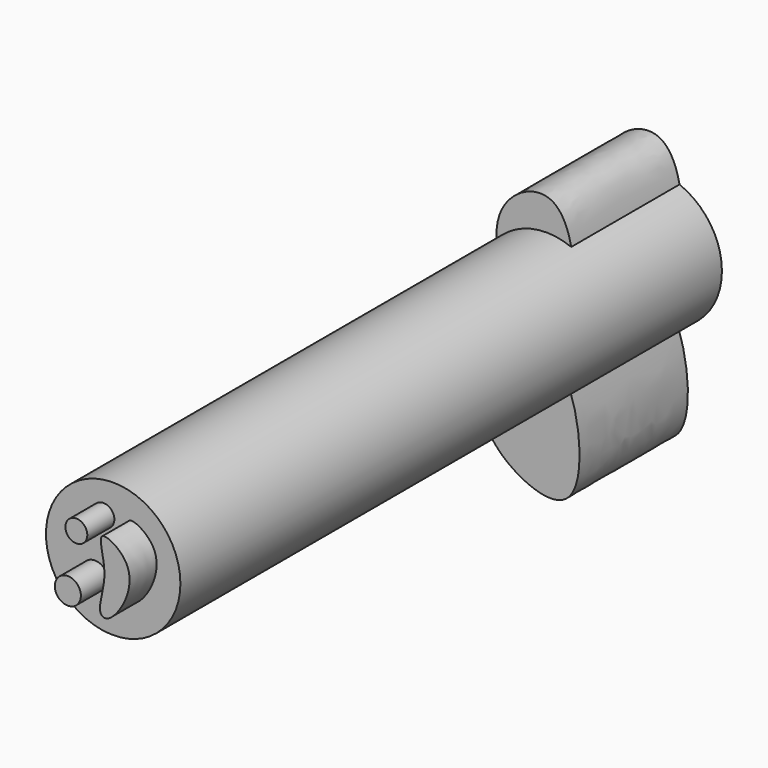
from build123d import *

# Parameters (mm, degrees)
F0_R     = 25.2255961417
F1_DEPTH = 254
F2_R     = 4.8984695606
F2_R_2   = 4.1135395879
F3_DEPTH = 12.7
F5_DEPTH = 50.8


with BuildPart() as f1:
    # F0 (on Front) → F1 (new body)
    with BuildSketch(Plane.XZ):
        with Locations((-37.837240845, 18.9186204225)):
            Circle(F0_R)
    extrude(amount=F1_DEPTH)

    # F2 (on face) → F3 (join)
    with BuildSketch(Plane.XZ.offset(254)):
        with Locations((-44.693492353, 11.2606054172)):
            Circle(F2_R)
        with Locations((-41.5038913488, 32.080437988)):
            Circle(F2_R_2)
        with BuildLine():
            add(Edge.make_bspline(
                [(-30.9607814997, 22.0860820264), (-31.1174790444, 27.1779190493), (-35.4705043818, 37.384895038), (-19.6123896035, 28.581671559), (-22.3060000408, 13.9240447836), (-29.9356971904, 5.434185596), (-34.1455406145, 8.7707728586), (-30.7894579728, 16.5189783491), (-30.9607814997, 22.0860820264)],
                knots=[0, 0, 0, 0, 0.179844359, 0.3488990719, 0.5500177158, 0.7159973757, 0.8033691597, 1, 1, 1, 1], degree=3))
        make_face()
    extrude(amount=F3_DEPTH)

    # F4 (on Front) → F5 (join)
    with BuildSketch(Plane.XZ):
        with BuildLine():
            add(Edge.make_bspline(
                [(-45.1222844422, 12.1712666005), (-52.9735846355, 16.9556340719), (-64.7701771693, 46.9993806394), (-27.9966636305, 66.0454754857), (-24.6817713236, 14.3898842389), (-39.8118103434, 8.9352090163), (-45.1222844422, 12.1712666005)],
                knots=[0, 0, 0, 0, 0.2823086577, 0.513014559, 0.8090516503, 1, 1, 1, 1], degree=3))
        make_face()
        with BuildLine():
            add(Edge.make_bspline(
                [(-57.3190748692, -10.1838894188), (-54.8526705143, -3.4441726715), (-51.1531019459, 10.2525243726), (-27.5972764056, 9.3930479254), (-18.4794160333, -57.7544605135), (-66.5035831823, -30.9630818541), (-59.7978178724, -16.957322858), (-57.3190748692, -10.1838894188)],
                knots=[0, 0, 0, 0, 0.1765612044, 0.3326258233, 0.6015627152, 0.8225555152, 1, 1, 1, 1], degree=3))
        make_face()
    extrude(amount=F5_DEPTH)


solid = f1.part
